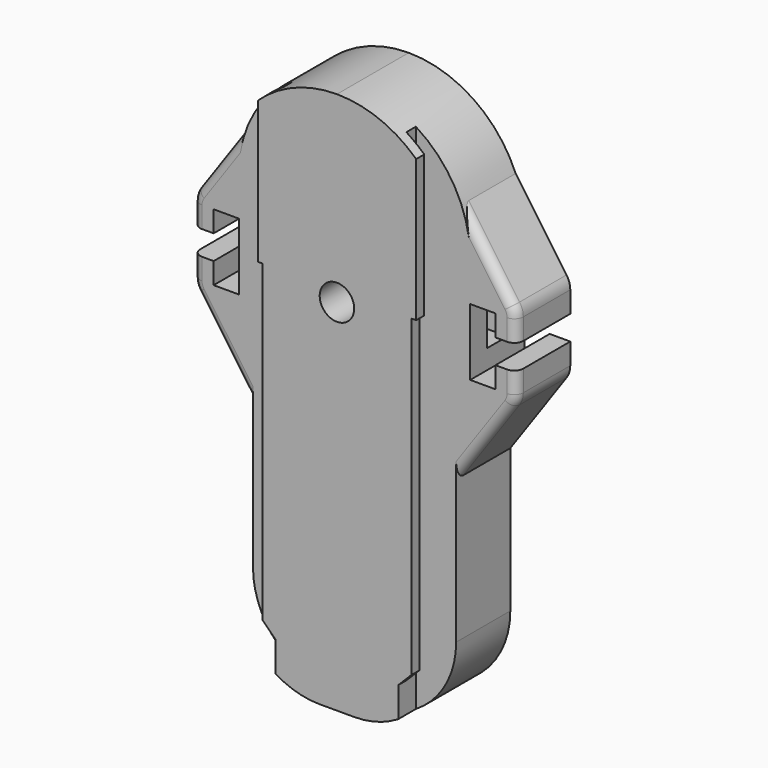
from build123d import *

# Parameters (mm, degrees)
SKETCH_W             = 27.1622
SKETCH_H             = 120.2182
PAD_DEPTH            = 4.8768
SKETCH001_W          = 35.087
SKETCH001_H          = 120.2182
PAD001_DEPTH         = 2.24
SKETCH002_W          = 55.087
SKETCH002_H          = 140.2182
POCKET_DEPTH         = 4.8778
PAD002_DEPTH         = 15
SKETCH004_W          = 71.2318
SKETCH004_H          = 140.2182
POCKET001_DEPTH      = 15.001
POCKET001_DEPTH_BACK = 4.8778
PAD008_DEPTH         = 15
SKETCH018_W          = 5.6
SKETCH018_H          = 15.6
POCKET007_DEPTH      = 31.2159
SKETCH019_W          = 8.22
SKETCH019_H          = 8.22
POCKET008_DEPTH      = 110.739
SKETCH022_R          = 3.8179
POCKET010_DEPTH      = 9.525
FILLET014_R          = 2
FILLET015_R          = 2


with BuildPart() as part:
    # Sketch → Pad (new body)
    with BuildSketch(Plane.XZ):
        with Locations((0, 60.1091)):
            Rectangle(SKETCH_W, SKETCH_H)
    extrude(amount=PAD_DEPTH)

    # Sketch001 → Pad001 (join)
    with BuildSketch(Plane.XZ.offset(4.8768)):
        with Locations((0, 60.1091)):
            Rectangle(SKETCH001_W, SKETCH001_H)
    extrude(amount=-PAD001_DEPTH)

    # Sketch002 → Pocket (cut, through all)
    with BuildSketch(Plane.XZ):
        with Locations((0, 60.1091)):
            Rectangle(SKETCH002_W, SKETCH002_H)
        Polygon((-13.5811, 0), (13.5811, 0), (13.5811, 9.398), (16.464, 12.2936), (16.464, 81.8388), (17.5435, 81.8388), (17.5435, 120.2182), (-17.5435, 120.2182), (-17.5435, 81.8388), (-16.464, 81.8388), (-16.464, 12.2936), (-13.5811, 9.398), align=None, mode=Mode.SUBTRACT)
    extrude(amount=POCKET_DEPTH, mode=Mode.SUBTRACT)

    # Sketch003 → Pad002 (join)
    with BuildSketch(Plane.XZ):
        with BuildLine():
            Line((-22.5044, 0), (22.5044, 0))
            Line((22.5044, 0), (22.5044, 63.215202))
            ThreePointArc((22.75823, 64.3128), (22.568684, 63.778485), (22.5044, 63.215202))
            Line((25.36207, 69.641402), (22.75823, 64.3128))
            ThreePointArc((25.36207, 69.641402), (25.551616, 70.175717), (25.6159, 70.739))
            Line((25.6159, 120.2182), (25.6159, 70.739))
            Line((-25.6159, 120.2182), (25.6159, 120.2182))
            Line((-25.6159, 70.739), (-25.6159, 120.2182))
            ThreePointArc((-25.6159, 70.739), (-25.551616, 70.175717), (-25.36207, 69.641402))
            Line((-25.36207, 69.641402), (-22.75823, 64.3128))
            ThreePointArc((-22.5044, 63.215202), (-22.568684, 63.778485), (-22.75823, 64.3128))
            Line((-22.5044, 63.215202), (-22.5044, 0))
        make_face()
    extrude(amount=-PAD002_DEPTH)

    # Sketch004 → Pocket001 (cut, two sides)
    with BuildSketch(Plane.XZ) as pocket001_sk:
        with Locations((0, 60.1091)):
            Rectangle(SKETCH004_W, SKETCH004_H)
        with BuildLine():
            ThreePointArc((-22.5044, 18.6944), (-17.028937, 5.475463), (-3.81, 0))
            Line((-3.81, 0), (3.81, 0))
            ThreePointArc((3.81, 0), (17.028937, 5.475463), (22.5044, 18.6944))
            Line((22.5044, 18.6944), (22.5044, 59.3128))
            Line((22.5044, 59.3128), (25.6159, 59.3128))
            Line((25.6159, 59.3128), (25.6159, 94.6023))
            ThreePointArc((25.6159, 94.6023), (18.113177, 112.715477), (0, 120.2182))
            ThreePointArc((0, 120.2182), (-18.113177, 112.715477), (-25.6159, 94.6023))
            Line((-25.6159, 94.6023), (-25.6159, 59.3128))
            Line((-25.6159, 59.3128), (-22.5044, 59.3128))
            Line((-22.5044, 59.3128), (-22.5044, 18.6944))
        make_face(mode=Mode.SUBTRACT)
    extrude(amount=-POCKET001_DEPTH, mode=Mode.SUBTRACT)
    extrude(pocket001_sk.sketch, amount=POCKET001_DEPTH_BACK, mode=Mode.SUBTRACT)

    # Sketch014 → Pad008 (join)
    with BuildSketch(Plane.XZ):
        with BuildLine():
            Line((31.2159, 70.839), (31.2159, 75.539))
            Line((31.2159, 75.539), (35.7859, 75.539))
            Line((35.7859, 70.839), (35.7859, 75.539))
            ThreePointArc((34.959425, 68.217756), (35.574386, 69.464774), (35.7859, 70.839))
            Line((22.5044, 50.430137), (34.959425, 68.217756))
            Line((22.5044, 106.047863), (22.5044, 50.430137))
            Line((22.5044, 106.047863), (34.959425, 88.260244))
            ThreePointArc((35.7859, 85.639), (35.574386, 87.013226), (34.959425, 88.260244))
            Line((35.7859, 80.939), (35.7859, 85.639))
            Line((31.2159, 80.939), (35.7859, 80.939))
            Line((31.2159, 80.939), (31.2159, 85.639))
            Line((31.2159, 85.639), (25.6159, 85.639))
            Line((25.6159, 85.639), (25.6159, 70.839))
            Line((25.6159, 70.839), (31.2159, 70.839))
        make_face()
    pad008 = extrude(amount=-PAD008_DEPTH)

    # Mirrored001: Pad008 across Sketch014 V_Axis
    add(pad008.mirror(Plane(origin=(0, 0, 0), x_dir=(0, -1, 0), z_dir=(1, 0, 0))))

    # Sketch018 → Pocket007 (cut, symmetric)
    with BuildSketch(Plane.YZ):
        with Locations((7.5, 82.939)):
            Rectangle(SKETCH018_W, SKETCH018_H)
    extrude(amount=POCKET007_DEPTH, both=True, mode=Mode.SUBTRACT)

    # Sketch019 → Pocket008 (cut)
    with BuildSketch(Plane.XY):
        with Locations((0, 8.81)):
            Rectangle(SKETCH019_W, SKETCH019_H)
    extrude(amount=POCKET008_DEPTH, mode=Mode.SUBTRACT)

    # Sketch022 → Pocket010 (cut)
    with BuildSketch(Plane.XZ.offset(4.8768)):
        with Locations((0, 79.6417)):
            Circle(SKETCH022_R)
    extrude(amount=-POCKET010_DEPTH, mode=Mode.SUBTRACT)

    # Fillet014
    fillet014_edges = [part.edges().sort_by_distance(p)[0] for p in [
        (35.7859, 0, 83.289),
        (35.7859, 0, 73.189),
        (-35.7859, 0, 83.289),
        (-35.7859, 0, 73.189),
    ]]
    fillet(fillet014_edges, radius=FILLET014_R)

    # Fillet015
    fillet015_edges = [part.edges().sort_by_distance(p)[0] for p in [
        (4.11, 4.7, 37.570704),
        (-4.11, 4.7, 37.570704),
        (4.11, 12.92, 55.370704),
        (-4.11, 12.92, 55.370704),
    ]]
    fillet(fillet015_edges, radius=FILLET015_R)


solid = part.part
